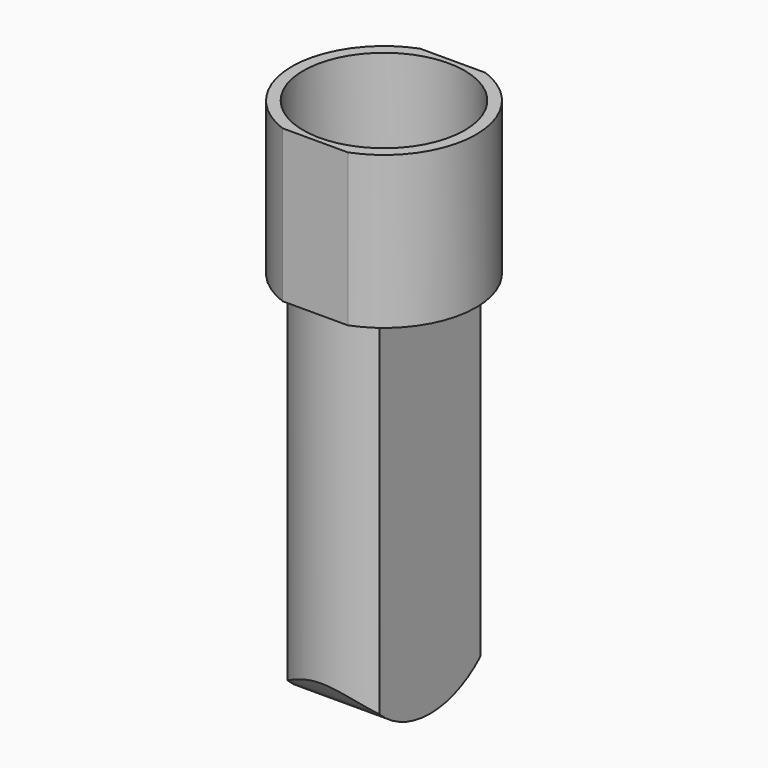
from build123d import *

# Parameters (mm, degrees)
F1_DEPTH = 38
F2_R     = 20.15
F3_DEPTH = 26
F5_DEPTH = 93
F7_DEPTH = 25


with BuildPart() as f1:
    # F0 (on Top) → F1 (new body)
    with BuildSketch(Plane.XY):
        with BuildLine():
            Line((8.170067, 21.5), (-8.170067, 21.5))
            ThreePointArc((-8.170067, 21.5), (-23, 0), (-8.170067, -21.5))
            Line((-8.170067, -21.5), (8.170067, -21.5))
            ThreePointArc((8.170067, -21.5), (23, 0), (8.170067, 21.5))
        make_face()
    extrude(amount=F1_DEPTH)

    # F2 (on face) → F3 (cut)
    with BuildSketch(Plane.XY.offset(38)):
        Circle(F2_R)
    extrude(amount=-F3_DEPTH, mode=Mode.SUBTRACT)

    # F4 (on face) → F5 (join)
    with BuildSketch(Plane(origin=(0, 0, 0), x_dir=(1, 0, 0), z_dir=(0, 0, -1))):
        with BuildLine():
            Line((-11.5, 15.748016), (-11.5, -15.748016))
            ThreePointArc((-11.5, -15.748016), (0, -19.5), (11.5, -15.748016))
            Line((11.5, -15.748016), (11.5, 15.748016))
            ThreePointArc((11.5, 15.748016), (0, 19.5), (-11.5, 15.748016))
        make_face()
    extrude(amount=F5_DEPTH)

    # F6 (on face) → F7 (cut)
    with BuildSketch(Plane(origin=(-11.5, 0, 0), x_dir=(0, -1, 0), z_dir=(-1, 0, 0))):
        with BuildLine():
            ThreePointArc((-15.748016, -86.763055), (-21.10341, -79.145823), (-22.999981, -70.029601))
            Line((-22.999981, -70.029601), (-43.337747, -102.50843))
            Line((-43.337747, -102.50843), (40.118754, -102.50843))
            Line((40.118754, -102.50843), (22.999981, -70.029601))
            ThreePointArc((22.999981, -70.029601), (21.10341, -79.145823), (15.748016, -86.763055))
            Line((15.748016, -86.763055), (15.748016, -93))
            Line((15.748016, -93), (0, -93))
            Line((0, -93), (-15.748016, -93))
            Line((-15.748016, -93), (-15.748016, -86.763055))
        make_face()
        with BuildLine():
            ThreePointArc((0, -93), (-8.469054, -91.383992), (-15.748016, -86.763055))
            Line((-15.748016, -86.763055), (-15.748016, -93))
            Line((-15.748016, -93), (0, -93))
        make_face()
        with BuildLine():
            ThreePointArc((15.748016, -86.763055), (8.469054, -91.383992), (0, -93))
            Line((0, -93), (15.748016, -93))
            Line((15.748016, -93), (15.748016, -86.763055))
        make_face()
    extrude(amount=-F7_DEPTH, mode=Mode.SUBTRACT)


solid = f1.part
